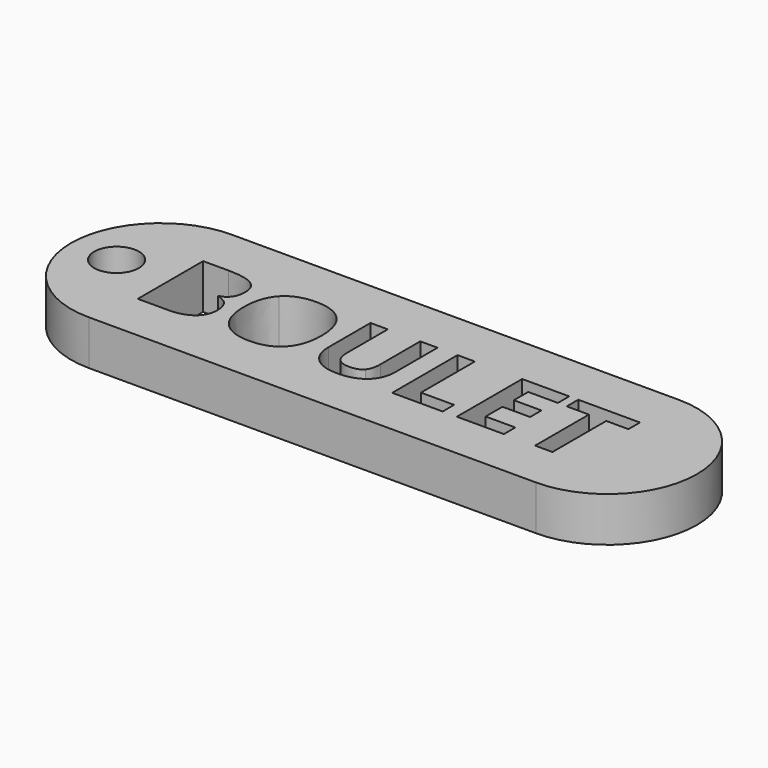
from build123d import *

# Parameters (mm, degrees)
F0_R     = 1.5
F1_DEPTH = 3


with BuildPart() as f1:
    # F0 (on Top) → F1 (new body)
    with BuildSketch(Plane.XY):
        with BuildLine():
            Line((-15, -6), (-15, 6))
            ThreePointArc((-15, 6), (-21, 0), (-15, -6))
        make_face()
        with Locations((-17.9419908673, 0)):
            Circle(F0_R, mode=Mode.SUBTRACT)
        Polygon((15, 6), (-15, 6), (-15, -6), (15, -6), (15, 1.75009996), (13.512594962, 1.75009996), (13.512594962, -2.7636945222), (12.350259896, -2.7636945222), (12.350259896, 1.75009996), (10.8616553379, 1.75009996), (10.8616553379, 2.7169132347), (15, 2.7169132347), align=None)
        with BuildLine():
            Line((-14.3102758896, -2.7636945222), (-14.3102758896, 2.7169132347))
            Line((-14.3102758896, 2.7169132347), (-12.6045581767, 2.7169132347))
            add(Edge.make_bspline(
                [(-12.6045581767, 2.7169132347), (-11.4386245502, 2.7169132347), (-10.9120351859, 2.3852459016)],
                knots=[0, 0, 0, 1, 1, 1], degree=2))
            add(Edge.make_bspline(
                [(-10.9120351859, 2.3852459016), (-10.3854458217, 2.0535785686), (-10.3854458217, 1.3302678928)],
                knots=[0, 0, 0, 1, 1, 1], degree=2))
            add(Edge.make_bspline(
                [(-10.3854458217, 1.3302678928), (-10.3854458217, 0.8384646142), (-10.6157536985, 0.5235905638)],
                knots=[0, 0, 0, 1, 1, 1], degree=2))
            add(Edge.make_bspline(
                [(-10.6157536985, 0.5235905638), (-10.8460615754, 0.2087165134), (-11.2287085166, 0.1451419432)],
                knots=[0, 0, 0, 1, 1, 1], degree=2))
            Line((-11.2287085166, 0.1451419432), (-11.2287085166, 0.1079568173))
            add(Edge.make_bspline(
                [(-11.2287085166, 0.1079568173), (-10.7081167533, -0.0083966413), (-10.4772091164, -0.3268692523)],
                knots=[0, 0, 0, 1, 1, 1], degree=2))
            add(Edge.make_bspline(
                [(-10.4772091164, -0.3268692523), (-10.2463014794, -0.6453418633), (-10.2463014794, -1.1743302679)],
                knots=[0, 0, 0, 1, 1, 1], degree=2))
            add(Edge.make_bspline(
                [(-10.2463014794, -1.1743302679), (-10.2463014794, -1.9240303878), (-10.7884846062, -2.343862455)],
                knots=[0, 0, 0, 1, 1, 1], degree=2))
            add(Edge.make_bspline(
                [(-10.7884846062, -2.343862455), (-11.3306677329, -2.7636945222), (-12.2602958816, -2.7636945222)],
                knots=[0, 0, 0, 1, 1, 1], degree=2))
            Line((-12.2602958816, -2.7636945222), (-14.3102758896, -2.7636945222))
        make_face(mode=Mode.SUBTRACT)
        with BuildLine():
            add(Edge.make_bspline(
                [(-4.8472610956, 2.0757696921), (-4.1779288285, 1.3482606957), (-4.1779288285, -0.0155937625)],
                knots=[0, 0, 0, 1, 1, 1], degree=2))
            add(Edge.make_bspline(
                [(-4.1779288285, -0.0155937625), (-4.1779288285, -1.3770491803), (-4.8526589364, -2.1081567373)],
                knots=[0, 0, 0, 1, 1, 1], degree=2))
            add(Edge.make_bspline(
                [(-4.8526589364, -2.1081567373), (-5.5273890444, -2.8392642943), (-6.7868852459, -2.8392642943)],
                knots=[0, 0, 0, 1, 1, 1], degree=2))
            add(Edge.make_bspline(
                [(-6.7868852459, -2.8392642943), (-8.0463814474, -2.8392642943), (-8.7211115554, -2.1081567373)],
                knots=[0, 0, 0, 1, 1, 1], degree=2))
            add(Edge.make_bspline(
                [(-8.7211115554, -2.1081567373), (-9.3958416633, -1.3770491803), (-9.3958416633, -0.0083966413)],
                knots=[0, 0, 0, 1, 1, 1], degree=2))
            add(Edge.make_bspline(
                [(-9.3958416633, -0.0083966413), (-9.3958416633, 1.3602558976), (-8.7193122751, 2.0817672931)],
                knots=[0, 0, 0, 1, 1, 1], degree=2))
            add(Edge.make_bspline(
                [(-8.7193122751, 2.0817672931), (-8.0427828868, 2.8032786885), (-6.7796881248, 2.8032786885)],
                knots=[0, 0, 0, 1, 1, 1], degree=2))
            add(Edge.make_bspline(
                [(-6.7796881248, 2.8032786885), (-5.5165933627, 2.8032786885), (-4.8472610956, 2.0757696921)],
                knots=[0, 0, 0, 1, 1, 1], degree=2))
        make_face(mode=Mode.SUBTRACT)
        with BuildLine():
            Line((0.2602958816, 2.7169132347), (1.419032387, 2.7169132347))
            Line((1.419032387, 2.7169132347), (1.419032387, -0.8288684526))
            add(Edge.make_bspline(
                [(1.419032387, -0.8288684526), (1.419032387, -1.4370251899), (1.1473410636, -1.894042383)],
                knots=[0, 0, 0, 1, 1, 1], degree=2))
            add(Edge.make_bspline(
                [(1.1473410636, -1.894042383), (0.8756497401, -2.3510595762), (0.3616553379, -2.5951619352)],
                knots=[0, 0, 0, 1, 1, 1], degree=2))
            add(Edge.make_bspline(
                [(0.3616553379, -2.5951619352), (-0.1523390644, -2.8392642943), (-0.8528588565, -2.8392642943)],
                knots=[0, 0, 0, 1, 1, 1], degree=2))
            add(Edge.make_bspline(
                [(-0.8528588565, -2.8392642943), (-1.9096361455, -2.8392642943), (-2.4944022391, -2.2970811675)],
                knots=[0, 0, 0, 1, 1, 1], degree=2))
            add(Edge.make_bspline(
                [(-2.4944022391, -2.2970811675), (-3.0791683327, -1.7548980408), (-3.0791683327, -0.8144742103)],
                knots=[0, 0, 0, 1, 1, 1], degree=2))
            Line((-3.0791683327, -0.8144742103), (-3.0791683327, 2.7169132347))
            Line((-3.0791683327, 2.7169132347), (-1.9216313475, 2.7169132347))
            Line((-1.9216313475, 2.7169132347), (-1.9216313475, -0.6381447421))
            add(Edge.make_bspline(
                [(-1.9216313475, -0.6381447421), (-1.9216313475, -1.2714914034), (-1.6667333067, -1.5677728908)],
                knots=[0, 0, 0, 1, 1, 1], degree=2))
            add(Edge.make_bspline(
                [(-1.6667333067, -1.5677728908), (-1.4118352659, -1.8640543782), (-0.8228708517, -1.8640543782)],
                knots=[0, 0, 0, 1, 1, 1], degree=2))
            add(Edge.make_bspline(
                [(-0.8228708517, -1.8640543782), (-0.2530987605, -1.8640543782), (0.0035985606, -1.5659736106)],
                knots=[0, 0, 0, 1, 1, 1], degree=2))
            add(Edge.make_bspline(
                [(0.0035985606, -1.5659736106), (0.2602958816, -1.2678928429), (0.2602958816, -0.630947621)],
                knots=[0, 0, 0, 1, 1, 1], degree=2))
            Line((0.2602958816, -0.630947621), (0.2602958816, 2.7169132347))
        make_face(mode=Mode.SUBTRACT)
        Polygon((6.1463414634, -2.7636945222), (2.7612954818, -2.7636945222), (2.7612954818, 2.7169132347), (3.9236305478, 2.7169132347), (3.9236305478, -1.8040783687), (6.1463414634, -1.8040783687), align=None, mode=Mode.SUBTRACT)
        Polygon((10.2546981208, -1.8040783687), (10.2546981208, -2.7636945222), (7.0987604958, -2.7636945222), (7.0987604958, 2.7169132347), (10.2546981208, 2.7169132347), (10.2546981208, 1.7644942023), (8.2610955618, 1.7644942023), (8.2610955618, 0.5613754498), (10.1167532987, 0.5613754498), (10.1167532987, -0.3910435826), (8.2610955618, -0.3910435826), (8.2610955618, -1.8040783687), align=None, mode=Mode.SUBTRACT)
        with BuildLine():
            ThreePointArc((15, -6), (21, 0), (15, 6))
            Line((15, 6), (15, 2.7169132347))
            Line((15, 2.7169132347), (15, 1.75009996))
            Line((15, 1.75009996), (15, -6))
        make_face()
    extrude(amount=F1_DEPTH)


solid = f1.part
